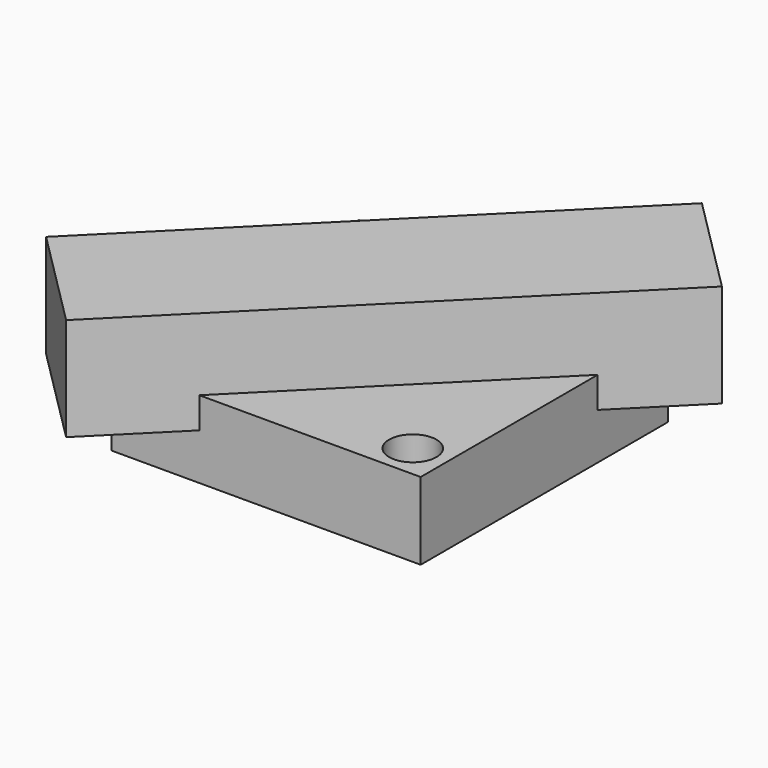
from build123d import *

# Parameters (mm, degrees)
SKETCH_W            = 120
SKETCH_H            = 120
SKETCH_R            = 9.191004
SKETCH_R_2          = 25
EXTRUDE001_DEPTH    = 30
BOX_W               = 200
BOX_H               = 55
BOX_DEPTH           = 40
BOX_PLACEMENT_ANGLE = 45


with BuildPart() as extrude001:
    # Sketch → Extrude001 (new body)
    with BuildSketch(Plane.XY):
        with Locations((-6.945789, 2.312527)):
            Rectangle(SKETCH_W, SKETCH_H)
        with Locations((-53.34613, 47.930275)):
            Circle(SKETCH_R, mode=Mode.SUBTRACT)
        with Locations((39.445465, -44.500248)):
            Circle(SKETCH_R, mode=Mode.SUBTRACT)
        with Locations((-6.303123, 6.74399)):
            Circle(SKETCH_R_2, mode=Mode.SUBTRACT)
    extrude(amount=EXTRUDE001_DEPTH)


with BuildPart() as cube:
    # Box → Box (new body)
    with BuildSketch(Plane.XY):
        with Locations((100, 27.5)):
            Rectangle(BOX_W, BOX_H)
    extrude(amount=BOX_DEPTH)


with BuildPart() as cube_1:
    # Box placement: moved
    add(cube.part.moved(Location((-61.585786, -86.414214, 18))).rotate(Axis((-61.585786, -86.414214, 18), (0, 0, 1)), BOX_PLACEMENT_ANGLE))


solid = Compound([extrude001.part, cube_1.part])
